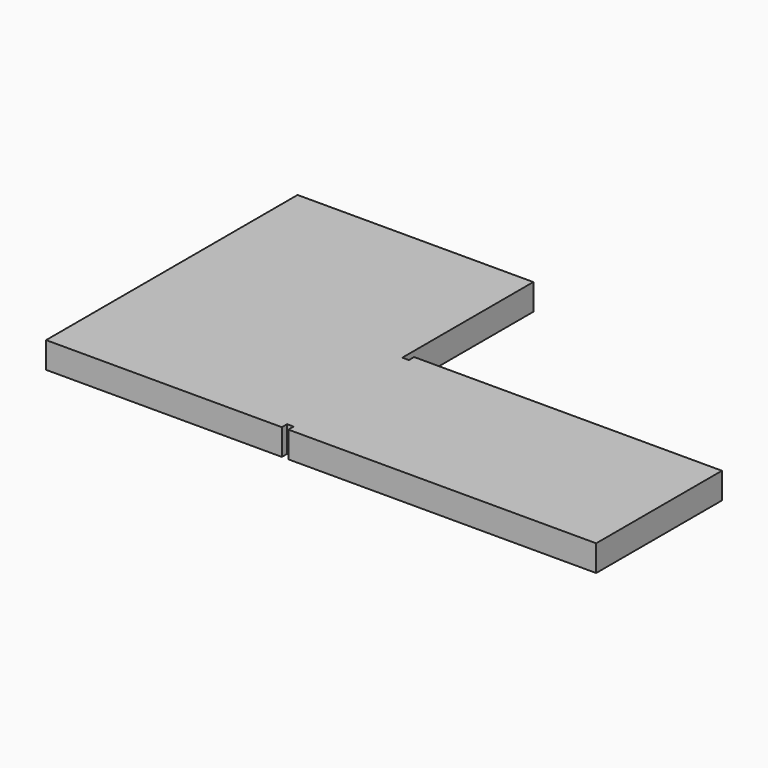
from build123d import *

# Parameters (mm, degrees)
F2_DEPTH = 2
F3_W     = 0.5
F3_H     = 0.5
F4_DEPTH = 2


with BuildPart() as f2:
    # F0 (on Top) → F2 (new body)
    with BuildSketch(Plane.XY):
        Polygon((-12, -6), (12, -6), (12, 6), (-12, 6), (-12, 18), (-30, 18), (-30, -6), align=None)
    extrude(amount=F2_DEPTH)

    # F3 (on face) → F4 (cut, through all)
    with BuildSketch(Plane.XY.offset(2)):
        with Locations((-11.75, -5.75)):
            Rectangle(F3_W, F3_H)
        with Locations((-11.75, 5.75)):
            Rectangle(F3_W, F3_H)
    extrude(amount=-F4_DEPTH, mode=Mode.SUBTRACT)


solid = f2.part
